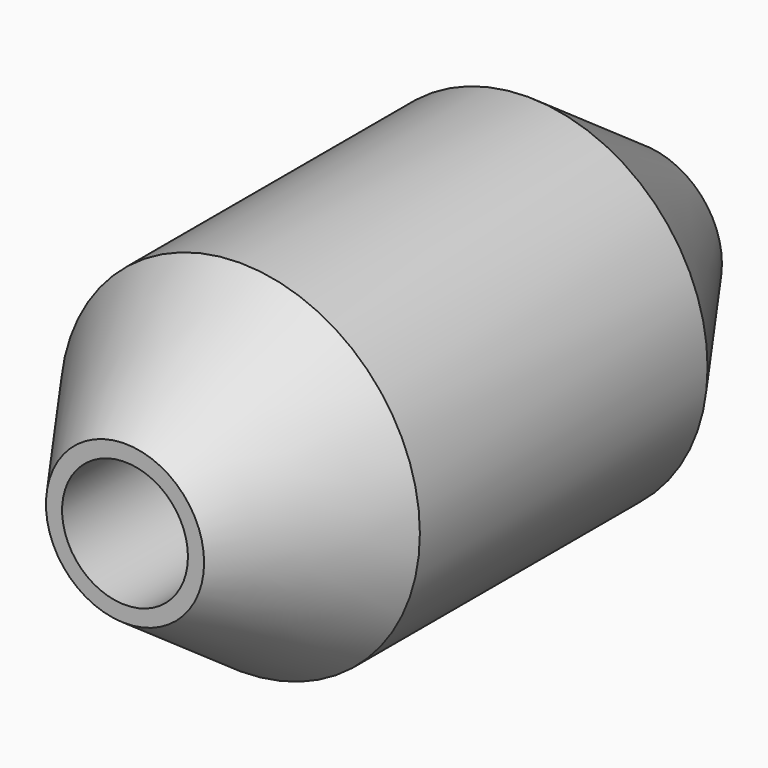
from build123d import *

# Parameters (mm, degrees)
F0_R     = 31.75
F0_R_2   = 11.1125
F1_DEPTH = 114.3
F2_SIZE2 = 17.785271
F2_SIZE  = 25.4


with BuildPart() as f1:
    # F0 (on Front) → F1 (new body)
    with BuildSketch(Plane.XZ):
        Circle(F0_R)
        Circle(F0_R_2, mode=Mode.SUBTRACT)
    extrude(amount=F1_DEPTH)

    # F2
    f2_edges = [f1.edges().sort_by_distance(p)[0] for p in [
        (31.75, -57.15, 0),
        (-31.75, 0, 0),
        (-31.75, -114.3, 0),
    ]]
    chamfer(f2_edges, length=F2_SIZE, length2=F2_SIZE2)


solid = f1.part
